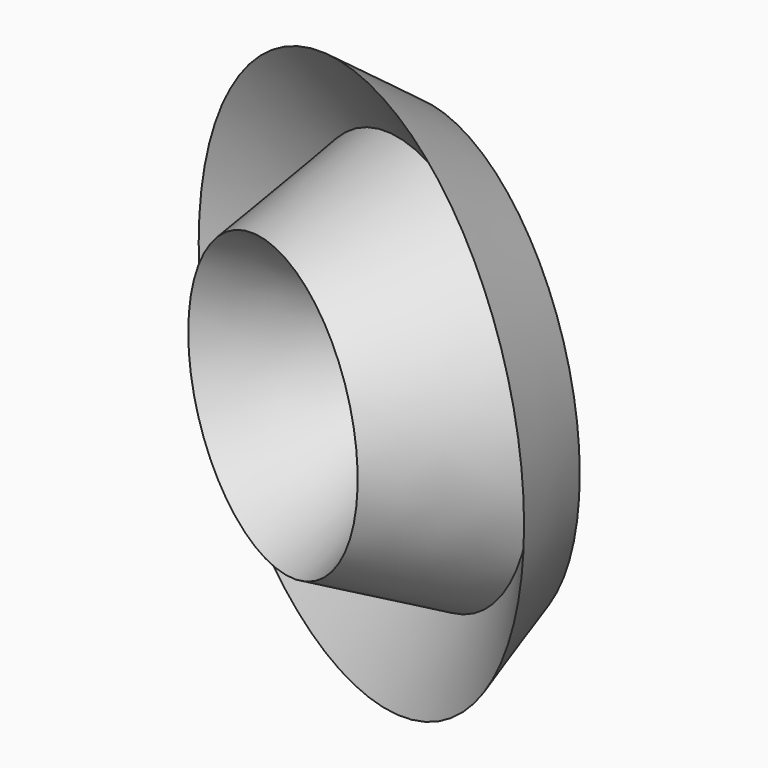
from build123d import *


with BuildPart() as f1:
    # F0 (on Top) → F1 (revolve)
    with BuildSketch(Plane.XY):
        Polygon((-70.2521502972, 38.7532189488), (-30.926220119, 44.8621027172), (-30.926220119, -16.2267256528), (16.0358157009, 17.372129485), (38.9441289008, 41.8076626956), (46.5802326798, 4.772559274), (65.6704902649, 49.061961472), (-28.2535832375, 45.2439077199), (-33.2170501351, 61.2797252834), align=None)
    revolve(axis=Axis((56.1253614724, 26.917260373, 0), (0.3958293129, 0.9183241013, 0)))


solid = f1.part
